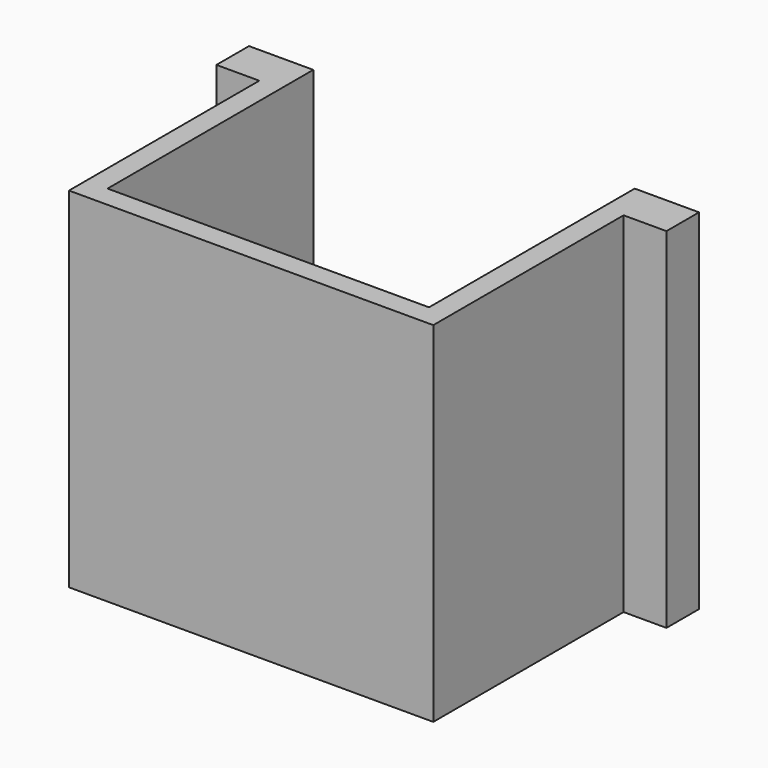
from build123d import *

# Parameters (mm, degrees)
F1_DEPTH = 81.5
F2_W     = 1.85
F2_H     = 25.8
F2_H_2   = 4.1
F3_DEPTH = 1.95
F2_W_2   = 7
F4_DEPTH = 8
F5_START = 5
F5_DEPTH = 3


with BuildPart() as f1:
    # F0 (on Top) → F1 (new body)
    with BuildSketch(Plane.XY):
        Polygon((0, -55.5), (0, 0), (10, 0), (10, 9.5), (-5, 9.5), (-5, -50.5), (-80, -50.5), (-80, 9.5), (-95, 9.5), (-95, 0), (-85, 0), (-85, -55.5), align=None)
    extrude(amount=F1_DEPTH)

    # F2 (on face) → F3 (join)
    with BuildSketch(Plane(origin=(0, -50.5, 0), x_dir=(-1, 0, 0), z_dir=(0, 1, 0))):
        Polygon((42.5, 47.4), (42.5, 51.5), (40.65, 51.5), (40.65, 17.5), (42.5, 17.5), (42.5, 21.6), align=None)
        with Locations((43.425, 34.5)):
            Rectangle(F2_W, F2_H)
        with Locations((43.425, 49.45)):
            Rectangle(F2_W, F2_H_2)
        with Locations((43.425, 19.55)):
            Rectangle(F2_W, F2_H_2)
    extrude(amount=F3_DEPTH)

    # F2 (on face) → F4 (join)
    with BuildSketch(Plane(origin=(0, -50.5, 0), x_dir=(-1, 0, 0), z_dir=(0, 1, 0))):
        with Locations((61, 34.5)):
            Rectangle(F2_W_2, F2_H)
        with Locations((24, 34.5)):
            Rectangle(F2_W_2, F2_H)
    extrude(amount=F4_DEPTH)

    # F2 (on face) → F5 (join)
    with BuildSketch(Plane(origin=(0, -50.5, 0), x_dir=(-1, 0, 0), z_dir=(0, 1, 0)).offset(F5_START)):
        Polygon((29.95, 24.05), (29.95, 44.95), (27.5, 47.4), (27.5, 21.6), align=None)
        Polygon((57.5, 21.6), (57.5, 47.4), (55.05, 44.95), (55.05, 24.05), align=None)
    extrude(amount=F5_DEPTH)


solid = f1.part
